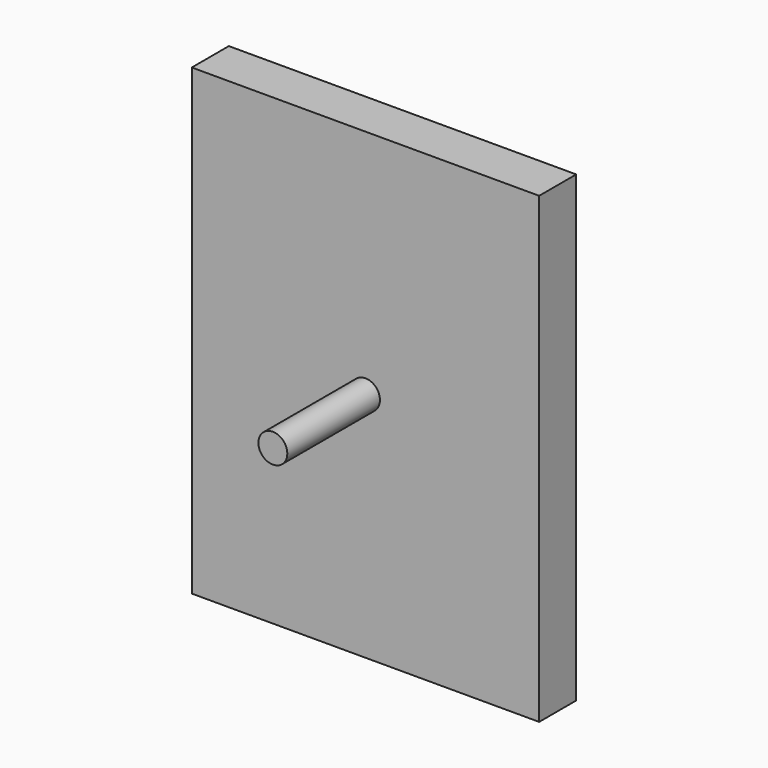
from build123d import *

# Parameters (mm, degrees)
F0_R     = 3.175
F1_DEPTH = 35.56
F0_W     = 76.2
F0_H     = 101.6
F2_DEPTH = 10.16


with BuildPart() as f1:
    # F0 (on Front) → F1 (new body)
    with BuildSketch(Plane.XZ):
        Circle(F0_R)
    extrude(amount=F1_DEPTH)

    # F0 (on Front) → F2 (join)
    with BuildSketch(Plane.XZ):
        Rectangle(F0_W, F0_H)
        Circle(F0_R, mode=Mode.SUBTRACT)
    extrude(amount=F2_DEPTH)


solid = f1.part
